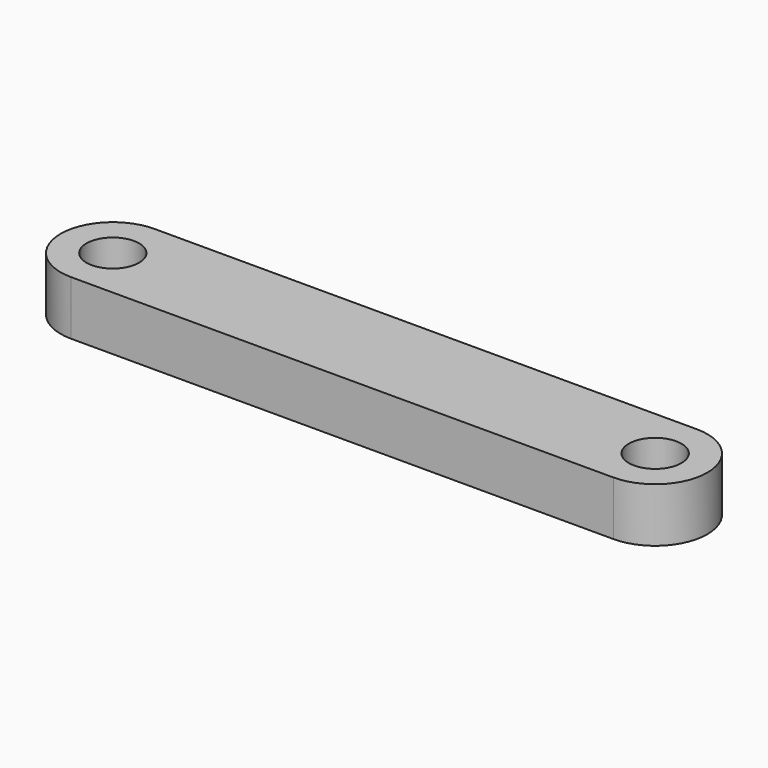
from build123d import *

# Parameters (mm, degrees)
SKETCH_R      = 1.94
EXTRUDE_DEPTH = 4


with BuildPart() as part:
    # Sketch → Extrude (new body)
    with BuildSketch(Plane.XY):
        with BuildLine():
            Line((0, 3.85), (40, 3.85))
            ThreePointArc((40, -3.85), (43.850008, 0), (40, 3.85))
            Line((0, -3.85), (40, -3.85))
            ThreePointArc((0, 3.85), (-3.85, 0), (0, -3.85))
        make_face()
        Circle(SKETCH_R, mode=Mode.SUBTRACT)
        with Locations((40.000008, 0)):
            Circle(SKETCH_R, mode=Mode.SUBTRACT)
    extrude(amount=EXTRUDE_DEPTH)


solid = part.part
